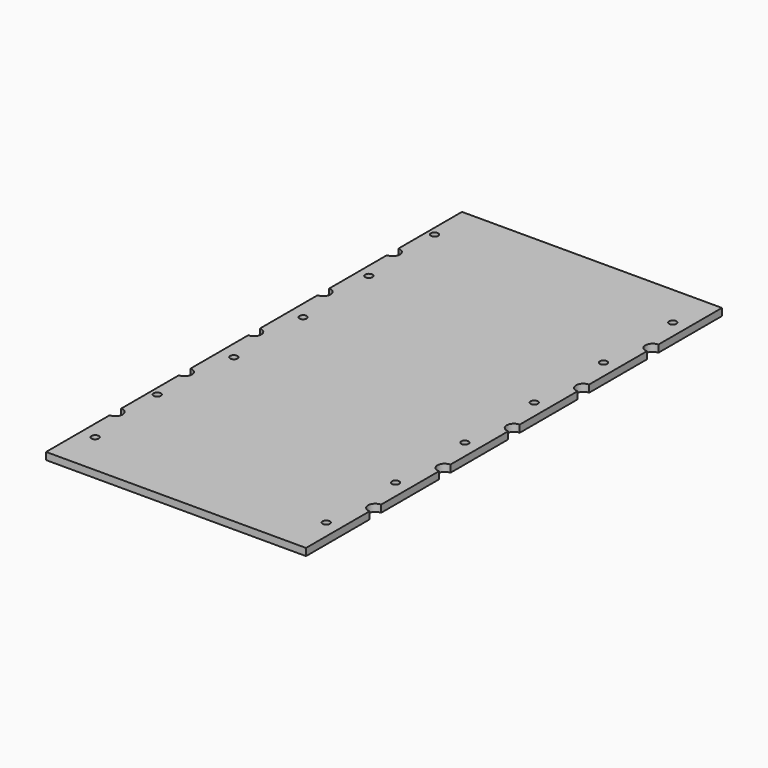
from build123d import *

# Parameters (mm, degrees)
F0_R     = 12.7
F1_DEPTH = 25.4


with BuildPart() as f1:
    # F0 (on Top) → F1 (new body)
    with BuildSketch(Plane.XY):
        with BuildLine():
            Line((-457.2, -914.4), (457.2, -914.4))
            Line((457.2, -914.4), (457.2, -635))
            ThreePointArc((457.2, -635), (431.8, -609.6), (457.2, -584.2))
            Line((457.2, -584.2), (457.2, -330.2))
            ThreePointArc((457.2, -330.2), (431.8, -304.8), (457.2, -279.4))
            Line((457.2, -279.4), (457.2, -25.4))
            ThreePointArc((457.2, -25.4), (431.8, 0), (457.2, 25.4))
            Line((457.2, 25.4), (457.2, 279.4))
            ThreePointArc((457.2, 279.4), (431.8, 304.8), (457.2, 330.2))
            Line((457.2, 330.2), (457.2, 584.2))
            ThreePointArc((457.2, 584.2), (431.8, 609.6), (457.2, 635))
            Line((457.2, 635), (457.2, 914.4))
            Line((457.2, 914.4), (-457.2, 914.4))
            Line((-457.2, 914.4), (-457.2, 635))
            ThreePointArc((-457.2, 635), (-431.8, 609.6), (-457.2, 584.2))
            Line((-457.2, 584.2), (-457.2, 330.2))
            ThreePointArc((-457.2, 330.2), (-431.8, 304.8), (-457.2, 279.4))
            Line((-457.2, 279.4), (-457.2, 25.4))
            ThreePointArc((-457.2, 25.4), (-431.8, 0), (-457.2, -25.4))
            Line((-457.2, -25.4), (-457.2, -279.4))
            ThreePointArc((-457.2, -279.4), (-431.8, -304.8), (-457.2, -330.2))
            Line((-457.2, -330.2), (-457.2, -584.2))
            ThreePointArc((-457.2, -584.2), (-431.8, -609.6), (-457.2, -635))
            Line((-457.2, -635), (-457.2, -914.4))
        make_face()
        with Locations((-406.4, -762)):
            Circle(F0_R, mode=Mode.SUBTRACT)
        with Locations((-431.8, -457.2)):
            Circle(F0_R, mode=Mode.SUBTRACT)
        with Locations((-406.4, -152.4)):
            Circle(F0_R, mode=Mode.SUBTRACT)
        with Locations((406.4, -762)):
            Circle(F0_R, mode=Mode.SUBTRACT)
        with Locations((406.4, -457.2)):
            Circle(F0_R, mode=Mode.SUBTRACT)
        with Locations((406.4, -152.4)):
            Circle(F0_R, mode=Mode.SUBTRACT)
        with Locations((-406.4, 152.4)):
            Circle(F0_R, mode=Mode.SUBTRACT)
        with Locations((-419.1, 457.2)):
            Circle(F0_R, mode=Mode.SUBTRACT)
        with Locations((-431.8, 762)):
            Circle(F0_R, mode=Mode.SUBTRACT)
        with Locations((406.4, 152.4)):
            Circle(F0_R, mode=Mode.SUBTRACT)
        with Locations((406.4, 457.2)):
            Circle(F0_R, mode=Mode.SUBTRACT)
        with Locations((406.4, 762)):
            Circle(F0_R, mode=Mode.SUBTRACT)
        with BuildLine():
            Line((-457.2, -914.4), (457.2, -914.4))
            Line((457.2, -914.4), (457.2, -635))
            ThreePointArc((457.2, -635), (431.8, -609.6), (457.2, -584.2))
            Line((457.2, -584.2), (457.2, -330.2))
            ThreePointArc((457.2, -330.2), (431.8, -304.8), (457.2, -279.4))
            Line((457.2, -279.4), (457.2, -25.4))
            ThreePointArc((457.2, -25.4), (431.8, 0), (457.2, 25.4))
            Line((457.2, 25.4), (457.2, 279.4))
            ThreePointArc((457.2, 279.4), (431.8, 304.8), (457.2, 330.2))
            Line((457.2, 330.2), (457.2, 584.2))
            ThreePointArc((457.2, 584.2), (431.8, 609.6), (457.2, 635))
            Line((457.2, 635), (457.2, 914.4))
            Line((457.2, 914.4), (-457.2, 914.4))
            Line((-457.2, 914.4), (-457.2, 635))
            ThreePointArc((-457.2, 635), (-431.8, 609.6), (-457.2, 584.2))
            Line((-457.2, 584.2), (-457.2, 330.2))
            ThreePointArc((-457.2, 330.2), (-431.8, 304.8), (-457.2, 279.4))
            Line((-457.2, 279.4), (-457.2, 25.4))
            ThreePointArc((-457.2, 25.4), (-431.8, 0), (-457.2, -25.4))
            Line((-457.2, -25.4), (-457.2, -279.4))
            ThreePointArc((-457.2, -279.4), (-431.8, -304.8), (-457.2, -330.2))
            Line((-457.2, -330.2), (-457.2, -584.2))
            ThreePointArc((-457.2, -584.2), (-431.8, -609.6), (-457.2, -635))
            Line((-457.2, -635), (-457.2, -914.4))
        make_face()
        with Locations((-406.4, -762)):
            Circle(F0_R, mode=Mode.SUBTRACT)
        with Locations((-431.8, -457.2)):
            Circle(F0_R, mode=Mode.SUBTRACT)
        with Locations((-406.4, -152.4)):
            Circle(F0_R, mode=Mode.SUBTRACT)
        with Locations((406.4, -762)):
            Circle(F0_R, mode=Mode.SUBTRACT)
        with Locations((406.4, -457.2)):
            Circle(F0_R, mode=Mode.SUBTRACT)
        with Locations((406.4, -152.4)):
            Circle(F0_R, mode=Mode.SUBTRACT)
        with Locations((-406.4, 152.4)):
            Circle(F0_R, mode=Mode.SUBTRACT)
        with Locations((-419.1, 457.2)):
            Circle(F0_R, mode=Mode.SUBTRACT)
        with Locations((-431.8, 762)):
            Circle(F0_R, mode=Mode.SUBTRACT)
        with Locations((406.4, 152.4)):
            Circle(F0_R, mode=Mode.SUBTRACT)
        with Locations((406.4, 457.2)):
            Circle(F0_R, mode=Mode.SUBTRACT)
        with Locations((406.4, 762)):
            Circle(F0_R, mode=Mode.SUBTRACT)
    extrude(amount=F1_DEPTH)


solid = f1.part
